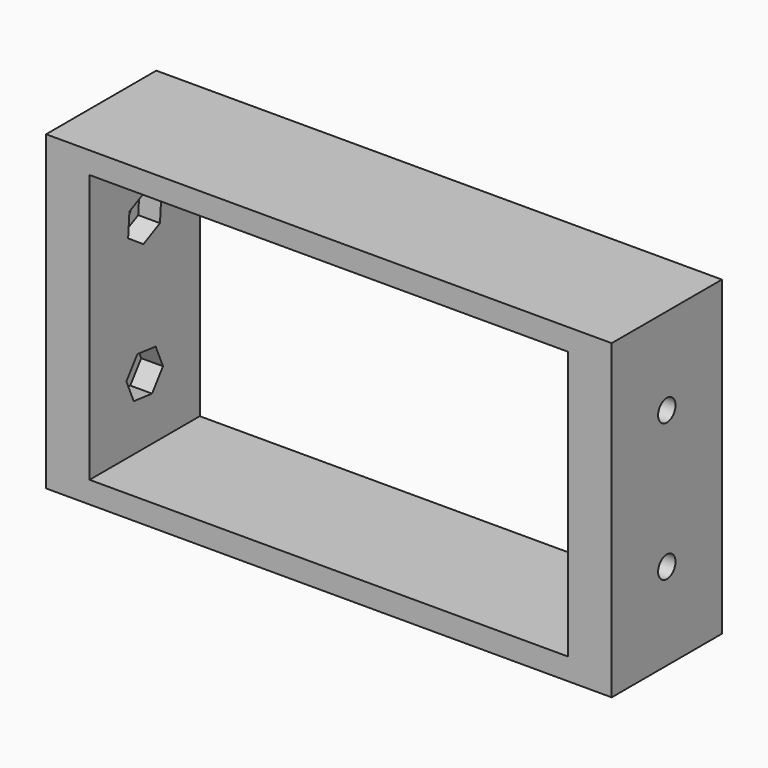
from build123d import *

# Parameters (mm, degrees)
F0_W     = 78
F0_H     = 43
F0_W_2   = 66
F0_H_2   = 37
F1_DEPTH = 19
F2_R     = 1.5
F3_DEPTH = 78
F5_DEPTH = 3
F7_DEPTH = 3


with BuildPart() as f1:
    # F0 (on Front) → F1 (new body)
    with BuildSketch(Plane.XZ):
        with Locations((12.482391, -0.926793)):
            Rectangle(F0_W, F0_H)
        with Locations((12.482391, -0.926793)):
            Rectangle(F0_W_2, F0_H_2, mode=Mode.SUBTRACT)
    extrude(amount=F1_DEPTH)

    # F2 (on face) → F3 (cut)
    with BuildSketch(Plane.YZ.offset(51.482391)):
        with Locations((-9.5, 8.573207)):
            Circle(F2_R)
        with Locations((-9.5, -10.426793)):
            Circle(F2_R)
    extrude(amount=-F3_DEPTH, mode=Mode.SUBTRACT)

    # F4 (on face) → F5 (cut)
    with BuildSketch(Plane.YZ.offset(-20.517609)):
        Polygon((-6.646372, 9.966096), (-9.279464, 11.740966), (-12.133092, 10.348076), (-12.353628, 7.180317), (-9.720536, 5.405448), (-6.866908, 6.798337), align=None)
        Polygon((-7.610832, -7.874466), (-10.765796, -7.514562), (-12.654965, -10.066889), (-11.389168, -12.979121), (-8.234204, -13.339025), (-6.345035, -10.786698), align=None)
    extrude(amount=-F5_DEPTH, mode=Mode.SUBTRACT)

    # F6 (on face) → F7 (cut)
    with BuildSketch(Plane(origin=(45.482391, 0, 0), x_dir=(0, -1, 0), z_dir=(-1, 0, 0))):
        Polygon((9.609124, 5.399656), (12.302937, 7.080935), (12.193814, 10.254486), (9.390876, 11.746758), (6.697063, 10.065478), (6.806186, 6.891927), align=None)
        Polygon((9.398182, -13.600587), (12.197677, -12.101867), (12.299495, -8.928073), (9.601818, -7.253), (6.802323, -8.75172), (6.700505, -11.925514), align=None)
    extrude(amount=-F7_DEPTH, mode=Mode.SUBTRACT)


solid = f1.part
